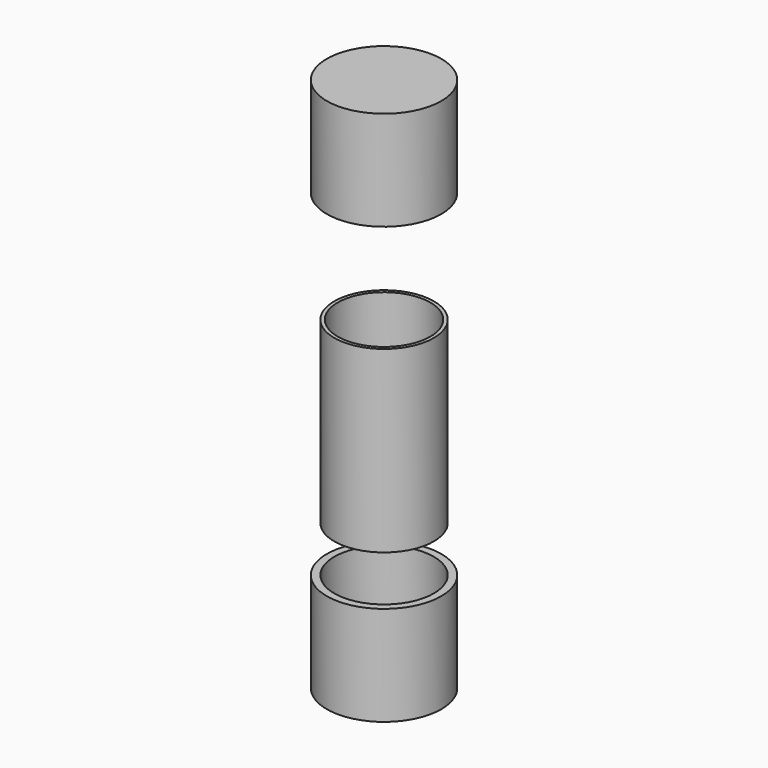
from build123d import *

# Parameters (mm, degrees)
SKETCH_R                = 100
PAD_DEPTH               = 360
SKETCH001_R             = 93
HOLE_DEPTH              = 400
SKETCH004_R             = 115
PAD002_DEPTH            = 200
SKETCH005_R             = 100
POCKET001_DEPTH         = 135
SKETCH006_R             = 95
POCKET002_DEPTH         = 60
SKETCH007_R             = 115
PAD003_DEPTH            = 200
SKETCH008_R             = 100
POCKET003_DEPTH         = 135
SKETCH009_R             = 95
POCKET004_DEPTH         = 60
BODY003_PLACEMENT_ANGLE = 180


with BuildPart() as body_center:
    # Sketch → Pad (new body)
    with BuildSketch(Plane.XY):
        Circle(SKETCH_R)
    extrude(amount=PAD_DEPTH)

    # Sketch001 (on Face2 of Pad) → Hole (cut)
    with BuildSketch(Plane(origin=(0, 0, 0), x_dir=(1, 0, 0), z_dir=(0, 0, -1))):
        Circle(SKETCH001_R)
    extrude(amount=-HOLE_DEPTH, mode=Mode.SUBTRACT)


with BuildPart() as body002:
    # Sketch004 → Pad002 (new body)
    with BuildSketch(Plane.XY):
        Circle(SKETCH004_R)
    extrude(amount=PAD002_DEPTH)

    # Sketch005 (on Face3 of Pad002) → Pocket001 (cut)
    with BuildSketch(Plane.XY.offset(200)):
        Circle(SKETCH005_R)
    extrude(amount=-POCKET001_DEPTH, mode=Mode.SUBTRACT)

    # Sketch006 (on Face5 of Pocket001) → Pocket002 (cut)
    with BuildSketch(Plane.XY.offset(65)):
        Circle(SKETCH006_R)
    extrude(amount=-POCKET002_DEPTH, mode=Mode.SUBTRACT)


with BuildPart() as body002_1:
    # Body002 placement: moved
    add(body002.part.moved(Location((0, 0, -292))))


with BuildPart() as body003:
    # Sketch007 → Pad003 (new body)
    with BuildSketch(Plane.XY):
        Circle(SKETCH007_R)
    extrude(amount=PAD003_DEPTH)

    # Sketch008 (on Face3 of Pad003) → Pocket003 (cut)
    with BuildSketch(Plane.XY.offset(200)):
        Circle(SKETCH008_R)
    extrude(amount=-POCKET003_DEPTH, mode=Mode.SUBTRACT)

    # Sketch009 (on Face5 of Pocket003) → Pocket004 (cut)
    with BuildSketch(Plane.XY.offset(65)):
        Circle(SKETCH009_R)
    extrude(amount=-POCKET004_DEPTH, mode=Mode.SUBTRACT)


with BuildPart() as body003_1:
    # Body003 placement: moved
    add(body003.part.moved(Location((0, 0, 784))).rotate(Axis((0, 0, 784), (1, 0, 0)), BODY003_PLACEMENT_ANGLE))


solid = Compound([body_center.part, body002_1.part, body003_1.part])
